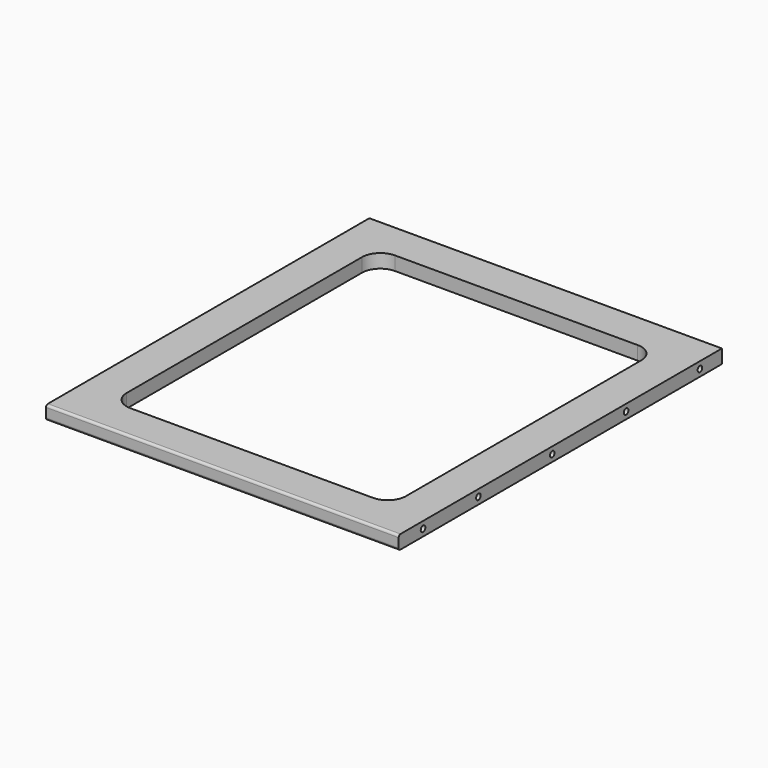
from build123d import *

# Parameters (mm, degrees)
F0_W      = 488.95
F0_H      = 560.3875
F1_DEPTH  = 19.05
F3_R      = 4
F4_DEPTH  = 26.9875
F5_SIZE   = 1.5875
F13_ANGLE = 90
F23_DEPTH = 19.051
F24_R     = 3.175


with BuildPart() as f1:
    # F0 (on Top) → F1 (new body)
    with BuildSketch(Plane.XY):
        Rectangle(F0_W, F0_H)
    extrude(amount=-F1_DEPTH)


with BuildPart() as f4:
    # F3 (on Right) → F4 (new body)
    with BuildSketch(Plane.YZ):
        with Locations((-271.8283832073, -132.3440223932)):
            Circle(F3_R)
    extrude(amount=-F4_DEPTH)

    # F5
    f5_edges = [f4.edges().sort_by_distance(p)[0] for p in [
        (-26.9875, -275.828383, -132.344022),
    ]]
    chamfer(f5_edges, length=F5_SIZE)


with BuildPart() as f6_1:
    # F6: copy of F4
    add(f4.part.moved(Location((244.475, 33.9221332073, 122.8190223932))))


with BuildPart() as f7_1:
    # F7: copy of F4
    add(f4.part.moved(Location((244.475, 129.9221332073, 122.8190223932))))


with BuildPart() as f8_1:
    # F8: copy of F4
    add(f4.part.moved(Location((244.475, 257.9221332073, 122.8190223932))))


with BuildPart() as f9_1:
    # F9: copy of F4
    add(f4.part.moved(Location((244.475, 385.9221332073, 122.8190223932))))


with BuildPart() as f10_1:
    # F10: copy of F4
    add(f4.part.moved(Location((244.475, 513.9221332073, 122.8190223932))))


with BuildPart() as f11_1:
    # F11: instance of F6_1
    add(f6_1.part.mirror(Plane.YZ))


with BuildPart() as f11_2:
    # F11: instance of F7_1
    add(f7_1.part.mirror(Plane.YZ))


with BuildPart() as f11_3:
    # F11: instance of F8_1
    add(f8_1.part.mirror(Plane.YZ))


with BuildPart() as f11_4:
    # F11: instance of F9_1
    add(f9_1.part.mirror(Plane.YZ))


with BuildPart() as f11_5:
    # F11: instance of F10_1
    add(f10_1.part.mirror(Plane.YZ))


with BuildPart() as f1_1:
    add(f1.part)

    # F12: cut F11_1, F11_2, F11_3, F11_4, F11_5, F10_1, F9_1, F8_1, F7_1, F6_1
    add(f11_1.part, mode=Mode.SUBTRACT)
    add(f11_2.part, mode=Mode.SUBTRACT)
    add(f11_3.part, mode=Mode.SUBTRACT)
    add(f11_4.part, mode=Mode.SUBTRACT)
    add(f11_5.part, mode=Mode.SUBTRACT)
    add(f10_1.part, mode=Mode.SUBTRACT)
    add(f9_1.part, mode=Mode.SUBTRACT)
    add(f8_1.part, mode=Mode.SUBTRACT)
    add(f7_1.part, mode=Mode.SUBTRACT)
    add(f6_1.part, mode=Mode.SUBTRACT)


with BuildPart() as f4_1:
    # F13: moved
    add(f4.part.rotate(Axis((244.475, -280.19375, -9.525), (0, 0, 1)), F13_ANGLE))


with BuildPart() as f16_1:
    # F16: copy of F4
    add(f4_1.part.moved(Location((-442.4846332073, 804.8625, 122.8190223932))))


with BuildPart() as f17_1:
    # F17: copy of F4
    add(f4_1.part.moved(Location((-314.4846332073, 804.8625, 122.8190223932))))


with BuildPart() as f18_1:
    # F18: copy of F4
    add(f4_1.part.moved(Location((-285.7346332073, 804.8625, 122.8190223932))))


with BuildPart() as f19_1:
    # F19: copy of F4
    add(f4_1.part.moved(Location((-157.7346332073, 804.8625, 122.8190223932))))


with BuildPart() as f4_2:
    # F20: moved
    add(f4_1.part.moved(Location((-29.7346332073, 804.8625, 122.8190223932))))


with BuildPart() as f1_2:
    add(f1_1.part)

    # F21: cut F16_1, F17_1, F18_1, F19_1, F4
    add(f16_1.part, mode=Mode.SUBTRACT)
    add(f17_1.part, mode=Mode.SUBTRACT)
    add(f18_1.part, mode=Mode.SUBTRACT)
    add(f19_1.part, mode=Mode.SUBTRACT)
    add(f4_2.part, mode=Mode.SUBTRACT)

    # F22 (on face) → F23 (cut, through all)
    with BuildSketch(Plane.XY):
        with BuildLine():
            Line((-193.675, 203.99375), (-193.675, -203.99375))
            ThreePointArc((-193.675, -203.99375), (-186.2355122421, -221.9542622421), (-168.275, -229.39375))
            Line((-168.275, -229.39375), (168.275, -229.39375))
            ThreePointArc((168.275, -229.39375), (186.2355122421, -221.9542622421), (193.675, -203.99375))
            Line((193.675, -203.99375), (193.675, 203.99375))
            ThreePointArc((193.675, 203.99375), (186.2355122421, 221.9542622421), (168.275, 229.39375))
            Line((168.275, 229.39375), (-168.275, 229.39375))
            ThreePointArc((-168.275, 229.39375), (-186.2355122421, 221.9542622421), (-193.675, 203.99375))
        make_face()
    extrude(amount=-F23_DEPTH, mode=Mode.SUBTRACT)

    # F24
    f24_edges = [f1_2.edges().sort_by_distance(p)[0] for p in [
        (0, -280.19375, 0),
        (0, -280.19375, -19.05),
    ]]
    fillet(f24_edges, radius=F24_R)


solid = f1_2.part
